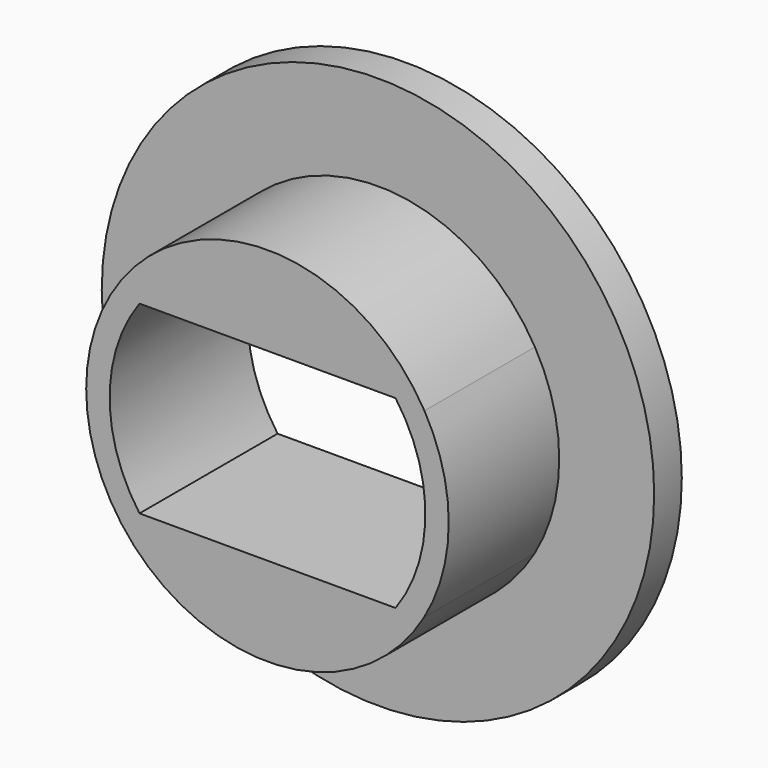
from build123d import *

# Parameters (mm, degrees)
F0_R     = 16
F0_R_2   = 9.5
F1_DEPTH = 2
F3_DEPTH = 10


with BuildPart() as f1:
    # F0 (on Front) → F1 (new body)
    with BuildSketch(Plane.XZ):
        Circle(F0_R)
        Circle(F0_R_2, mode=Mode.SUBTRACT)
    extrude(amount=F1_DEPTH)

    # F2 (on Front) → F3 (join)
    with BuildSketch(Plane.XZ):
        with BuildLine():
            ThreePointArc((9.075132, -5.281286), (10.499984, -0.018081), (9.093267, 5.25))
            ThreePointArc((9.093267, 5.25), (0, 10.5), (-9.093267, 5.25))
            ThreePointArc((-9.093267, 5.25), (-10.5, 0), (-9.093267, -5.25))
            ThreePointArc((-9.093267, -5.25), (-0.018081, -10.499984), (9.075132, -5.281286))
        make_face()
        with BuildLine():
            ThreePointArc((-7.413502, -5.35), (-9.142347, 0), (-7.413502, 5.35))
            Line((-7.413502, 5.35), (7.420145, 5.35))
            ThreePointArc((7.420145, 5.35), (9.147735, 0), (7.420145, -5.35))
            Line((7.420145, -5.35), (-7.413502, -5.35))
        make_face(mode=Mode.SUBTRACT)
    extrude(amount=F3_DEPTH)


solid = f1.part
